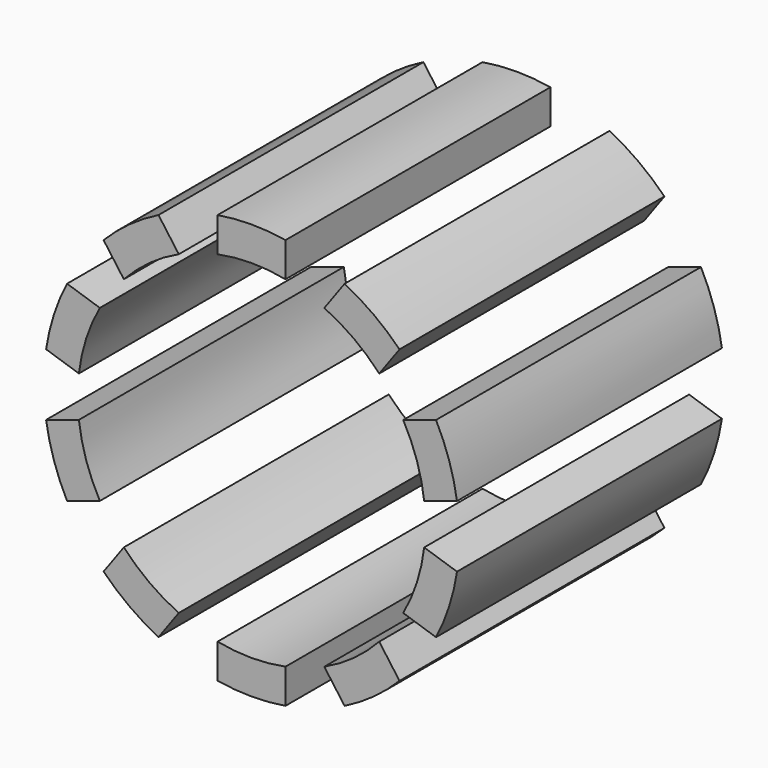
from build123d import *

# Parameters (mm, degrees)
F1_DEPTH = 20
F3_DEPTH = 25


with BuildPart() as f1:
    # F0 (on Front) → F1 (new body)
    with BuildSketch(Plane.XZ):
        with BuildLine():
            ThreePointArc((48.729363, -11.200408), (49.681325, -5.636126), (50, 0))
            ThreePointArc((50, 0), (49.998301, 0.412138), (49.993206, 0.824248))
            ThreePointArc((49.993206, 0.824248), (49.726095, 5.226423), (49.072105, 9.587936))
            ThreePointArc((49.072105, 9.587936), (47.552826, 15.45085), (45.335814, 21.087057))
            ThreePointArc((45.335814, 21.087057), (43.30127, 25), (40.929834, 28.718438))
            ThreePointArc((40.929834, 28.718438), (37.157241, 33.45653), (32.839448, 37.703722))
            ThreePointArc((32.839448, 37.703722), (29.389263, 40.45085), (25.710422, 42.883262))
            ThreePointArc((25.710422, 42.883262), (20.336832, 45.677273), (14.664844, 47.801071))
            ThreePointArc((14.664844, 47.801071), (10.395585, 48.90738), (6.045446, 49.63318))
            ThreePointArc((6.045446, 49.63318), (3.028282, 49.908211), (0, 50))
            ThreePointArc((0, 50), (-3.028282, 49.908211), (-6.045446, 49.63318))
            ThreePointArc((-6.045446, 49.63318), (-10.395585, 48.90738), (-14.664844, 47.801071))
            ThreePointArc((-14.664844, 47.801071), (-20.336832, 45.677273), (-25.710422, 42.883262))
            ThreePointArc((-25.710422, 42.883262), (-29.389263, 40.45085), (-32.839448, 37.703722))
            ThreePointArc((-32.839448, 37.703722), (-37.157241, 33.45653), (-40.929834, 28.718438))
            ThreePointArc((-40.929834, 28.718438), (-43.30127, 25), (-45.335814, 21.087057))
            ThreePointArc((-45.335814, 21.087057), (-47.552826, 15.45085), (-49.072105, 9.587936))
            ThreePointArc((-49.072105, 9.587936), (-49.726095, 5.226423), (-49.993206, 0.824248))
            ThreePointArc((-49.993206, 0.824248), (-49.726095, -5.226423), (-48.729363, -11.200408))
            ThreePointArc((-48.729363, -11.200408), (-47.552826, -15.45085), (-46.006318, -19.581081))
            ThreePointArc((-46.006318, -19.581081), (-43.30127, -25), (-39.960872, -30.0521))
            ThreePointArc((-39.960872, -30.0521), (-37.157241, -33.45653), (-34.06452, -36.600663))
            ThreePointArc((-34.06452, -36.600663), (-29.389263, -40.45085), (-24.282783, -43.70751))
            ThreePointArc((-24.282783, -43.70751), (-20.336832, -45.677273), (-16.232657, -47.291657))
            ThreePointArc((-16.232657, -47.291657), (-10.395585, -48.90738), (-4.40598, -49.805495))
            ThreePointArc((-4.40598, -49.805495), (0, -50), (4.40598, -49.805495))
            ThreePointArc((4.40598, -49.805495), (10.395585, -48.90738), (16.232657, -47.291657))
            ThreePointArc((16.232657, -47.291657), (20.336832, -45.677273), (24.282783, -43.70751))
            ThreePointArc((24.282783, -43.70751), (29.389263, -40.45085), (34.06452, -36.600663))
            ThreePointArc((34.06452, -36.600663), (37.157241, -33.45653), (39.960872, -30.0521))
            ThreePointArc((39.960872, -30.0521), (43.30127, -25), (46.006318, -19.581081))
            ThreePointArc((46.006318, -19.581081), (47.552826, -15.45085), (48.729363, -11.200408))
        make_face()
        with BuildLine():
            ThreePointArc((49.993206, 0.824248), (49.998301, 0.412138), (50, 0))
            ThreePointArc((50, 0), (49.681325, -5.636126), (48.729363, -11.200408))
            ThreePointArc((48.729363, -11.200408), (54.079586, -11.415323), (59.43312, -11.311688))
            ThreePointArc((59.43312, -11.311688), (59.852825, -8.825494), (60.168575, -6.323972))
            ThreePointArc((60.168575, -6.323972), (60.379821, -3.811466), (60.486196, -1.29234))
            ThreePointArc((60.486196, -1.29234), (55.271196, -0.077907), (49.993206, 0.824248))
        make_face()
        with BuildLine():
            ThreePointArc((45.335814, 21.087057), (47.552826, 15.45085), (49.072105, 9.587936))
            ThreePointArc((49.072105, 9.587936), (54.04719, 11.567733), (58.895735, 13.839886))
            ThreePointArc((58.895735, 13.839886), (58.267928, 16.281847), (57.538919, 18.695528))
            ThreePointArc((57.538919, 18.695528), (56.709974, 21.076738), (55.782531, 23.421341))
            ThreePointArc((55.782531, 23.421341), (50.524438, 22.409649), (45.335814, 21.087057))
        make_face()
        with BuildLine():
            ThreePointArc((54.731247, -25.782563), (50.461062, -22.551992), (46.006318, -19.581081))
            ThreePointArc((46.006318, -19.581081), (43.30127, -25), (39.960872, -30.0521))
            ThreePointArc((39.960872, -30.0521), (44.76113, -32.424566), (49.693979, -34.507369))
            ThreePointArc((49.693979, -34.507369), (51.088624, -32.406827), (52.394537, -30.25))
            ThreePointArc((52.394537, -30.25), (53.609448, -28.040633), (54.731247, -25.782563))
        make_face()
        with BuildLine():
            ThreePointArc((32.839448, 37.703722), (37.157241, 33.45653), (40.929834, 28.718438))
            ThreePointArc((40.929834, 28.718438), (44.669544, 32.550622), (48.174742, 36.598419))
            ThreePointArc((48.174742, 36.598419), (46.607977, 38.573909), (44.960262, 40.482402))
            ThreePointArc((44.960262, 40.482402), (43.234457, 42.320583), (41.43356, 44.085259))
            ThreePointArc((41.43356, 44.085259), (37.041545, 41.022373), (32.839448, 37.703722))
        make_face()
        with BuildLine():
            ThreePointArc((39.512769, -45.814747), (36.925753, -41.126633), (34.06452, -36.600663))
            ThreePointArc((34.06452, -36.600663), (29.389263, -40.45085), (24.282783, -43.70751))
            ThreePointArc((24.282783, -43.70751), (27.703068, -47.827306), (31.362297, -51.736412))
            ThreePointArc((31.362297, -51.736412), (33.490737, -50.384725), (35.561008, -48.945528))
            ThreePointArc((35.561008, -48.945528), (37.569515, -47.42132), (39.512769, -45.814747))
        make_face()
        with BuildLine():
            ThreePointArc((14.664844, 47.801071), (20.336832, 45.677273), (25.710422, 42.883262))
            ThreePointArc((25.710422, 42.883262), (27.568128, 47.905214), (29.123899, 53.028752))
            ThreePointArc((29.123899, 53.028752), (26.889084, 54.196191), (24.607567, 55.2695))
            ThreePointArc((24.607567, 55.2695), (22.28331, 56.246814), (19.920351, 57.126435))
            ThreePointArc((19.920351, 57.126435), (17.153833, 52.541957), (14.664844, 47.801071))
        make_face()
        with BuildLine():
            ThreePointArc((17.462174, -57.925145), (17.005645, -52.590106), (16.232657, -47.291657))
            ThreePointArc((16.232657, -47.291657), (10.395585, -48.90738), (4.40598, -49.805495))
            ThreePointArc((4.40598, -49.805495), (5.854894, -54.960271), (7.607789, -60.01976))
            ThreePointArc((7.607789, -60.01976), (10.101996, -59.650647), (12.578657, -59.17793))
            ThreePointArc((12.578657, -59.17793), (15.033471, -58.60243), (17.462174, -57.925145))
        make_face()
        with BuildLine():
            ThreePointArc((0, 50), (3.028282, 49.908211), (6.045446, 49.63318))
            ThreePointArc((6.045446, 49.63318), (5.699933, 54.976558), (5.037269, 60.289932))
            ThreePointArc((5.037269, 60.289932), (2.520824, 60.44746), (0, 60.5))
            Line((0, 60.5), (0, 50))
        make_face()
        with BuildLine():
            ThreePointArc((-7.607789, -60.01976), (-5.854894, -54.960271), (-4.40598, -49.805495))
            ThreePointArc((-4.40598, -49.805495), (-10.395585, -48.90738), (-16.232657, -47.291657))
            ThreePointArc((-16.232657, -47.291657), (-17.005645, -52.590106), (-17.462174, -57.925145))
            ThreePointArc((-17.462174, -57.925145), (-15.033471, -58.60243), (-12.578657, -59.17793))
            ThreePointArc((-12.578657, -59.17793), (-10.101996, -59.650647), (-7.607789, -60.01976))
        make_face()
        with BuildLine():
            ThreePointArc((-6.045446, 49.63318), (-3.028282, 49.908211), (0, 50))
            Line((0, 50), (0, 60.5))
            ThreePointArc((0, 60.5), (-2.520824, 60.44746), (-5.037269, 60.289932))
            ThreePointArc((-5.037269, 60.289932), (-5.699933, 54.976558), (-6.045446, 49.63318))
        make_face()
        with BuildLine():
            ThreePointArc((-31.362297, -51.736412), (-27.703068, -47.827306), (-24.282783, -43.70751))
            ThreePointArc((-24.282783, -43.70751), (-29.389263, -40.45085), (-34.06452, -36.600663))
            ThreePointArc((-34.06452, -36.600663), (-36.925753, -41.126633), (-39.512769, -45.814747))
            ThreePointArc((-39.512769, -45.814747), (-37.569515, -47.42132), (-35.561008, -48.945528))
            ThreePointArc((-35.561008, -48.945528), (-33.490737, -50.384725), (-31.362297, -51.736412))
        make_face()
        with BuildLine():
            ThreePointArc((-25.710422, 42.883262), (-20.336832, 45.677273), (-14.664844, 47.801071))
            ThreePointArc((-14.664844, 47.801071), (-17.153833, 52.541957), (-19.920351, 57.126435))
            ThreePointArc((-19.920351, 57.126435), (-22.28331, 56.246814), (-24.607567, 55.2695))
            ThreePointArc((-24.607567, 55.2695), (-26.889084, 54.196191), (-29.123899, 53.028752))
            ThreePointArc((-29.123899, 53.028752), (-27.568128, 47.905214), (-25.710422, 42.883262))
        make_face()
        with BuildLine():
            ThreePointArc((-49.693979, -34.507369), (-44.76113, -32.424566), (-39.960872, -30.0521))
            ThreePointArc((-39.960872, -30.0521), (-43.30127, -25), (-46.006318, -19.581081))
            ThreePointArc((-46.006318, -19.581081), (-50.461062, -22.551992), (-54.731247, -25.782563))
            ThreePointArc((-54.731247, -25.782563), (-53.609448, -28.040633), (-52.394537, -30.25))
            ThreePointArc((-52.394537, -30.25), (-51.088624, -32.406827), (-49.693979, -34.507369))
        make_face()
        with BuildLine():
            ThreePointArc((-40.929834, 28.718438), (-37.157241, 33.45653), (-32.839448, 37.703722))
            ThreePointArc((-32.839448, 37.703722), (-37.041545, 41.022373), (-41.43356, 44.085259))
            ThreePointArc((-41.43356, 44.085259), (-43.234457, 42.320583), (-44.960262, 40.482402))
            ThreePointArc((-44.960262, 40.482402), (-46.607977, 38.573909), (-48.174742, 36.598419))
            ThreePointArc((-48.174742, 36.598419), (-44.669544, 32.550622), (-40.929834, 28.718438))
        make_face()
        with BuildLine():
            ThreePointArc((-59.43312, -11.311688), (-54.079586, -11.415323), (-48.729363, -11.200408))
            ThreePointArc((-48.729363, -11.200408), (-49.726095, -5.226423), (-49.993206, 0.824248))
            ThreePointArc((-49.993206, 0.824248), (-55.271196, -0.077907), (-60.486196, -1.29234))
            ThreePointArc((-60.486196, -1.29234), (-60.379821, -3.811466), (-60.168575, -6.323972))
            ThreePointArc((-60.168575, -6.323972), (-59.852825, -8.825494), (-59.43312, -11.311688))
        make_face()
        with BuildLine():
            ThreePointArc((-49.072105, 9.587936), (-47.552826, 15.45085), (-45.335814, 21.087057))
            ThreePointArc((-45.335814, 21.087057), (-50.524438, 22.409649), (-55.782531, 23.421341))
            ThreePointArc((-55.782531, 23.421341), (-56.709974, 21.076738), (-57.538919, 18.695528))
            ThreePointArc((-57.538919, 18.695528), (-58.267928, 16.281847), (-58.895735, 13.839886))
            ThreePointArc((-58.895735, 13.839886), (-54.04719, 11.567733), (-49.072105, 9.587936))
        make_face()
    extrude(amount=F1_DEPTH)

    # F2 (on face) → F3 (cut)
    with BuildSketch(Plane.XZ.offset(20)):
        with BuildLine():
            ThreePointArc((54.731247, -25.782563), (50.461062, -22.551992), (46.006318, -19.581081))
            ThreePointArc((46.006318, -19.581081), (47.552826, -15.45085), (48.729363, -11.200408))
            ThreePointArc((48.729363, -11.200408), (54.079586, -11.415323), (59.43312, -11.311688))
            ThreePointArc((59.43312, -11.311688), (60.168575, -6.323972), (60.486196, -1.29234))
            ThreePointArc((60.486196, -1.29234), (55.271196, -0.077907), (49.993206, 0.824248))
            ThreePointArc((49.993206, 0.824248), (49.726095, 5.226423), (49.072105, 9.587936))
            ThreePointArc((49.072105, 9.587936), (54.04719, 11.567733), (58.895735, 13.839886))
            ThreePointArc((58.895735, 13.839886), (57.538919, 18.695528), (55.782531, 23.421341))
            ThreePointArc((55.782531, 23.421341), (50.524438, 22.409649), (45.335814, 21.087057))
            ThreePointArc((45.335814, 21.087057), (43.30127, 25), (40.929834, 28.718438))
            ThreePointArc((40.929834, 28.718438), (44.669544, 32.550622), (48.174742, 36.598419))
            ThreePointArc((48.174742, 36.598419), (44.960262, 40.482402), (41.43356, 44.085259))
            ThreePointArc((41.43356, 44.085259), (37.041545, 41.022373), (32.839448, 37.703722))
            ThreePointArc((32.839448, 37.703722), (29.389263, 40.45085), (25.710422, 42.883262))
            ThreePointArc((25.710422, 42.883262), (27.568128, 47.905214), (29.123899, 53.028752))
            ThreePointArc((29.123899, 53.028752), (24.607567, 55.2695), (19.920351, 57.126435))
            ThreePointArc((19.920351, 57.126435), (17.153833, 52.541957), (14.664844, 47.801071))
            ThreePointArc((14.664844, 47.801071), (10.395585, 48.90738), (6.045446, 49.63318))
            ThreePointArc((6.045446, 49.63318), (5.699933, 54.976558), (5.037269, 60.289932))
            ThreePointArc((5.037269, 60.289932), (0, 60.5), (-5.037269, 60.289932))
            ThreePointArc((-5.037269, 60.289932), (-5.699933, 54.976558), (-6.045446, 49.63318))
            ThreePointArc((-6.045446, 49.63318), (-10.395585, 48.90738), (-14.664844, 47.801071))
            ThreePointArc((-14.664844, 47.801071), (-17.153833, 52.541957), (-19.920351, 57.126435))
            ThreePointArc((-19.920351, 57.126435), (-24.607567, 55.2695), (-29.123899, 53.028752))
            ThreePointArc((-29.123899, 53.028752), (-27.568128, 47.905214), (-25.710422, 42.883262))
            ThreePointArc((-25.710422, 42.883262), (-29.389263, 40.45085), (-32.839448, 37.703722))
            ThreePointArc((-32.839448, 37.703722), (-37.041545, 41.022373), (-41.43356, 44.085259))
            ThreePointArc((-41.43356, 44.085259), (-44.960262, 40.482402), (-48.174742, 36.598419))
            ThreePointArc((-48.174742, 36.598419), (-44.669544, 32.550622), (-40.929834, 28.718438))
            ThreePointArc((-40.929834, 28.718438), (-43.30127, 25), (-45.335814, 21.087057))
            ThreePointArc((-45.335814, 21.087057), (-50.524438, 22.409649), (-55.782531, 23.421341))
            ThreePointArc((-55.782531, 23.421341), (-57.538919, 18.695528), (-58.895735, 13.839886))
            ThreePointArc((-58.895735, 13.839886), (-54.04719, 11.567733), (-49.072105, 9.587936))
            ThreePointArc((-49.072105, 9.587936), (-49.726095, 5.226423), (-49.993206, 0.824248))
            ThreePointArc((-49.993206, 0.824248), (-55.271196, -0.077907), (-60.486196, -1.29234))
            ThreePointArc((-60.486196, -1.29234), (-60.168575, -6.323972), (-59.43312, -11.311688))
            ThreePointArc((-59.43312, -11.311688), (-54.079586, -11.415323), (-48.729363, -11.200408))
            ThreePointArc((-48.729363, -11.200408), (-47.552826, -15.45085), (-46.006318, -19.581081))
            ThreePointArc((-46.006318, -19.581081), (-50.461062, -22.551992), (-54.731247, -25.782563))
            ThreePointArc((-54.731247, -25.782563), (-52.394537, -30.25), (-49.693979, -34.507369))
            ThreePointArc((-49.693979, -34.507369), (-44.76113, -32.424566), (-39.960872, -30.0521))
            ThreePointArc((-39.960872, -30.0521), (-37.157241, -33.45653), (-34.06452, -36.600663))
            ThreePointArc((-34.06452, -36.600663), (-36.925753, -41.126633), (-39.512769, -45.814747))
            ThreePointArc((-39.512769, -45.814747), (-35.561008, -48.945528), (-31.362297, -51.736412))
            ThreePointArc((-31.362297, -51.736412), (-27.703068, -47.827306), (-24.282783, -43.70751))
            ThreePointArc((-24.282783, -43.70751), (-20.336832, -45.677273), (-16.232657, -47.291657))
            ThreePointArc((-16.232657, -47.291657), (-17.005645, -52.590106), (-17.462174, -57.925145))
            ThreePointArc((-17.462174, -57.925145), (-12.578657, -59.17793), (-7.607789, -60.01976))
            ThreePointArc((-7.607789, -60.01976), (-5.854894, -54.960271), (-4.40598, -49.805495))
            ThreePointArc((-4.40598, -49.805495), (0, -50), (4.40598, -49.805495))
            ThreePointArc((4.40598, -49.805495), (5.854894, -54.960271), (7.607789, -60.01976))
            ThreePointArc((7.607789, -60.01976), (12.578657, -59.17793), (17.462174, -57.925145))
            ThreePointArc((17.462174, -57.925145), (17.005645, -52.590106), (16.232657, -47.291657))
            ThreePointArc((16.232657, -47.291657), (20.336832, -45.677273), (24.282783, -43.70751))
            ThreePointArc((24.282783, -43.70751), (27.703068, -47.827306), (31.362297, -51.736412))
            ThreePointArc((31.362297, -51.736412), (35.561008, -48.945528), (39.512769, -45.814747))
            ThreePointArc((39.512769, -45.814747), (36.925753, -41.126633), (34.06452, -36.600663))
            ThreePointArc((34.06452, -36.600663), (37.157241, -33.45653), (39.960872, -30.0521))
            ThreePointArc((39.960872, -30.0521), (44.76113, -32.424566), (49.693979, -34.507369))
            ThreePointArc((49.693979, -34.507369), (52.394537, -30.25), (54.731247, -25.782563))
        make_face()
        with BuildLine():
            ThreePointArc((-2.05, 12.381438), (0, 12.55), (2.05, 12.381438))
            Line((2.05, 12.381438), (2.05, 10.297937))
            ThreePointArc((2.05, 10.297937), (3.244678, 9.986093), (4.39449, 9.536166))
            Line((4.39449, 9.536166), (5.619142, 11.221753))
            ThreePointArc((5.619142, 11.221753), (7.376705, 10.153163), (8.936111, 8.811834))
            Line((8.936111, 8.811834), (7.71146, 7.126246))
            ThreePointArc((7.71146, 7.126246), (8.494678, 6.171745), (9.160435, 5.131903))
            Line((9.160435, 5.131903), (11.141962, 5.775741))
            ThreePointArc((11.141962, 5.775741), (11.935759, 3.878163), (12.408932, 1.876409))
            Line((12.408932, 1.876409), (10.427405, 1.232572))
            ThreePointArc((10.427405, 1.232572), (10.481835, 0.617354), (10.5, 0))
            ThreePointArc((10.5, 0), (10.481835, -0.617354), (10.427405, -1.232572))
            Line((10.427405, -1.232572), (12.408932, -1.876409))
            ThreePointArc((12.408932, -1.876409), (11.935759, -3.878163), (11.141962, -5.775741))
            Line((11.141962, -5.775741), (9.160435, -5.131903))
            ThreePointArc((9.160435, -5.131903), (8.494678, -6.171745), (7.71146, -7.126246))
            Line((7.71146, -7.126246), (8.936111, -8.811834))
            ThreePointArc((8.936111, -8.811834), (7.376705, -10.153163), (5.619142, -11.221753))
            Line((5.619142, -11.221753), (4.39449, -9.536166))
            ThreePointArc((4.39449, -9.536166), (3.244678, -9.986093), (2.05, -10.297937))
            Line((2.05, -10.297937), (2.05, -12.381438))
            ThreePointArc((2.05, -12.381438), (0, -12.55), (-2.05, -12.381438))
            Line((-2.05, -12.381438), (-2.05, -10.297937))
            ThreePointArc((-2.05, -10.297937), (-3.244678, -9.986093), (-4.39449, -9.536166))
            Line((-4.39449, -9.536166), (-5.619142, -11.221753))
            ThreePointArc((-5.619142, -11.221753), (-7.376705, -10.153163), (-8.936111, -8.811834))
            Line((-8.936111, -8.811834), (-7.71146, -7.126246))
            ThreePointArc((-7.71146, -7.126246), (-8.494678, -6.171745), (-9.160435, -5.131903))
            Line((-9.160435, -5.131903), (-11.141962, -5.775741))
            ThreePointArc((-11.141962, -5.775741), (-11.935759, -3.878163), (-12.408932, -1.876409))
            Line((-12.408932, -1.876409), (-10.427405, -1.232572))
            ThreePointArc((-10.427405, -1.232572), (-10.5, 0), (-10.427405, 1.232572))
            Line((-10.427405, 1.232572), (-12.408932, 1.876409))
            ThreePointArc((-12.408932, 1.876409), (-11.935759, 3.878163), (-11.141962, 5.775741))
            Line((-11.141962, 5.775741), (-9.160435, 5.131903))
            ThreePointArc((-9.160435, 5.131903), (-8.494678, 6.171745), (-7.71146, 7.126246))
            Line((-7.71146, 7.126246), (-8.936111, 8.811834))
            ThreePointArc((-8.936111, 8.811834), (-7.376705, 10.153163), (-5.619142, 11.221753))
            Line((-5.619142, 11.221753), (-4.39449, 9.536166))
            ThreePointArc((-4.39449, 9.536166), (-3.244678, 9.986093), (-2.05, 10.297937))
            Line((-2.05, 10.297937), (-2.05, 12.381438))
        make_face(mode=Mode.SUBTRACT)
        with BuildLine():
            ThreePointArc((4.39449, 9.536166), (3.244678, 9.986093), (2.05, 10.297937))
            ThreePointArc((2.05, 10.297937), (0, 10.5), (-2.05, 10.297937))
            ThreePointArc((-2.05, 10.297937), (-3.244678, 9.986093), (-4.39449, 9.536166))
            ThreePointArc((-4.39449, 9.536166), (-6.171745, 8.494678), (-7.71146, 7.126246))
            ThreePointArc((-7.71146, 7.126246), (-8.494678, 6.171745), (-9.160435, 5.131903))
            ThreePointArc((-9.160435, 5.131903), (-9.986093, 3.244678), (-10.427405, 1.232572))
            ThreePointArc((-10.427405, 1.232572), (-10.5, 0), (-10.427405, -1.232572))
            ThreePointArc((-10.427405, -1.232572), (-9.986093, -3.244678), (-9.160435, -5.131903))
            ThreePointArc((-9.160435, -5.131903), (-8.494678, -6.171745), (-7.71146, -7.126246))
            ThreePointArc((-7.71146, -7.126246), (-6.171745, -8.494678), (-4.39449, -9.536166))
            ThreePointArc((-4.39449, -9.536166), (-3.244678, -9.986093), (-2.05, -10.297937))
            ThreePointArc((-2.05, -10.297937), (0, -10.5), (2.05, -10.297937))
            ThreePointArc((2.05, -10.297937), (3.244678, -9.986093), (4.39449, -9.536166))
            ThreePointArc((4.39449, -9.536166), (6.171745, -8.494678), (7.71146, -7.126246))
            ThreePointArc((7.71146, -7.126246), (8.494678, -6.171745), (9.160435, -5.131903))
            ThreePointArc((9.160435, -5.131903), (9.986093, -3.244678), (10.427405, -1.232572))
            ThreePointArc((10.427405, -1.232572), (10.481835, -0.617354), (10.5, 0))
            ThreePointArc((10.5, 0), (10.481835, 0.617354), (10.427405, 1.232572))
            ThreePointArc((10.427405, 1.232572), (9.986093, 3.244678), (9.160435, 5.131903))
            ThreePointArc((9.160435, 5.131903), (8.494678, 6.171745), (7.71146, 7.126246))
            ThreePointArc((7.71146, 7.126246), (6.171745, 8.494678), (4.39449, 9.536166))
        make_face()
    extrude(amount=-F3_DEPTH, mode=Mode.SUBTRACT)


solid = f1.part
